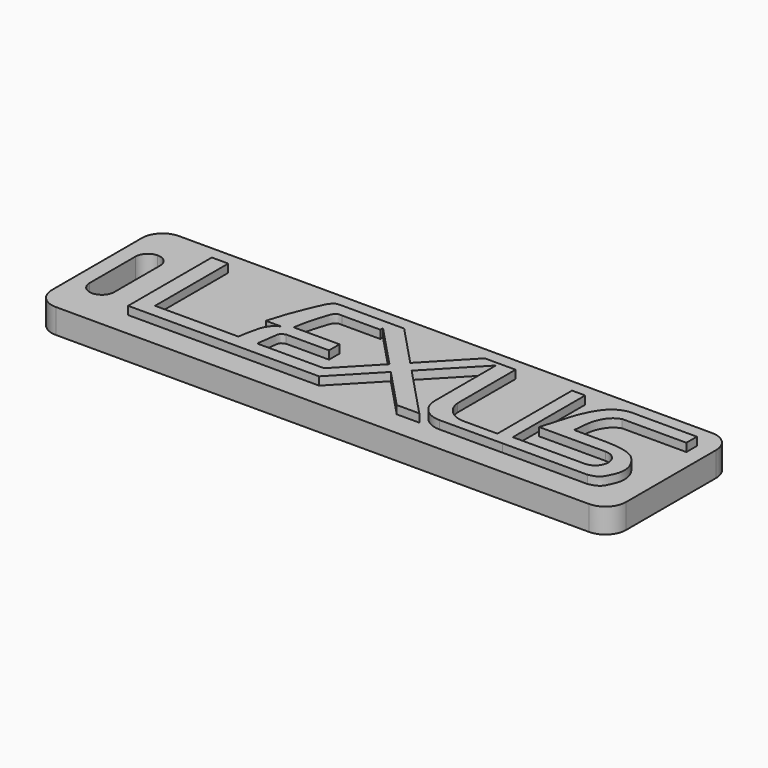
from build123d import *

# Parameters (mm, degrees)
F1_DEPTH = 3.81
F3_DEPTH = 1.27


with BuildPart() as f1:
    # F0 (on Top) → F1 (new body)
    with BuildSketch(Plane.XY):
        with BuildLine():
            Line((-41.275, -11.90625), (41.275, -11.90625))
            ThreePointArc((41.275, -11.90625), (43.5200640303, -10.9763140303), (44.45, -8.73125))
            Line((44.45, -8.73125), (44.45, 8.73125))
            ThreePointArc((44.45, 8.73125), (43.5200640303, 10.9763140303), (41.275, 11.90625))
            Line((41.275, 11.90625), (-41.275, 11.90625))
            ThreePointArc((-41.275, 11.90625), (-43.5200640303, 10.9763140303), (-44.45, 8.73125))
            Line((-44.45, 8.73125), (-44.45, -8.73125))
            ThreePointArc((-44.45, -8.73125), (-43.5200640303, -10.9763140303), (-41.275, -11.90625))
        make_face()
        with BuildLine():
            Line((-38.2169688356, 4.445), (-38.2169688356, -4.445))
            ThreePointArc((-38.2169688356, -4.445), (-38.7749304174, -5.7920384182), (-40.1219688356, -6.35))
            ThreePointArc((-40.1219688356, -6.35), (-41.4690072538, -5.7920384182), (-42.0269688356, -4.445))
            Line((-42.0269688356, -4.445), (-42.0269688356, 4.445))
            ThreePointArc((-42.0269688356, 4.445), (-41.4690072538, 5.7920384182), (-40.1219688356, 6.35))
            ThreePointArc((-40.1219688356, 6.35), (-38.7749304174, 5.7920384182), (-38.2169688356, 4.445))
        make_face(mode=Mode.SUBTRACT)
    extrude(amount=F1_DEPTH)

    # F2 (on face) → F3 (join)
    with BuildSketch(Plane.XY.offset(3.81)):
        with BuildLine():
            Line((-33.1369688356, 8.09625), (-33.1369688356, -8.09625))
            Line((-33.1369688356, -8.09625), (-14.9305017963, -8.09625))
            Line((-14.9305017963, -8.09625), (-4.4408244503, -8.09625))
            Line((-4.4408244503, -8.09625), (-4.4408244503, -6.06425))
            Line((-4.4408244503, -6.06425), (-14.7659257054, -6.06425))
            add(Edge.make_bspline(
                [(-13.513635844, -2.032), (-13.8611532829, -2.1980739704), (-14.3459285269, -2.2099492601), (-14.4823312004, -4.002820532), (-14.7172564306, -5.3877740164), (-14.7775029403, -5.761799907), (-14.7659257054, -6.06425)],
                knots=[0, 0, 0, 0, 0.2107594837, 0.5139383753, 0.8003027815, 1, 1, 1, 1], degree=3))
            Line((-13.513635844, -2.032), (-6.8832325343, -2.032))
            Line((-6.8832325343, -2.032), (-6.8832325343, 0))
            Line((-6.8832325343, 0), (-13.9832440764, 0))
            add(Edge.make_bspline(
                [(-11.374309659, 6.06425), (-11.7970469078, 6.0937481421), (-12.400656261, 6.0408242331), (-12.9628712261, 4.3407982551), (-13.3836406147, 2.9409234174), (-13.8567248974, 1.0073529425), (-13.9832440764, 0)],
                knots=[0, 0, 0, 0, 0.1854469036, 0.4247933811, 0.6668574102, 1, 1, 1, 1], degree=3))
            Line((-11.374309659, 6.06425), (-5.4148057359, 6.06425))
            Line((-5.4148057359, 6.06425), (-5.4148057359, 6.5723256238))
            Line((-5.4148057359, 6.5723256238), (-5.4148057359, 8.09625))
            Line((-5.4148057359, 8.09625), (-13.4092783555, 8.09625))
            add(Edge.make_bspline(
                [(-17.6879316568, -0.762), (-17.0853493776, 1.2922751779), (-16.7349072936, 2.3189827137), (-15.8911126674, 4.4121063422), (-15.0710282171, 6.5370694937), (-14.3847178975, 7.6672909404), (-13.9179741964, 8.0772032961), (-13.4092783555, 8.09625)],
                knots=[0, 0, 0, 0, 0.2707299894, 0.4717983457, 0.6911291675, 0.8524377102, 1, 1, 1, 1], degree=3))
            Line((-17.6879316568, -0.762), (-15.3005402535, -0.762))
            add(Edge.make_bspline(
                [(-17.6879316568, -6.06425), (-17.5631227568, -5.0804670724), (-17.5265823635, -5.0281161064), (-17.1728408985, -3.2023736826), (-16.8475061728, -2.1905918672), (-16.1243397189, -1.1537855527), (-15.7725399015, -0.9954859224), (-15.3005402535, -0.762)],
                knots=[0, 0, 0, 0, 0.2097857454, 0.4327627354, 0.6303900109, 0.8195013475, 1, 1, 1, 1], degree=3))
            Line((-17.6879316568, -6.06425), (-30.5969688356, -6.06425))
            Line((-30.5969688356, -6.06425), (-30.5969688356, 8.09625))
            Line((-30.5969688356, 8.09625), (-33.1369688356, 8.09625))
        make_face()
        Polygon((-4.4408244503, -6.06425), (-4.4408244503, -8.09625), (-3.57352963, -8.09625), (2.4774279686, -1.7803364764), (1.0801424445, -0.3015341148), align=None)
        Polygon((2.8394880429, 1.5348487183), (1.0801424445, -0.3015341148), (2.4774279686, -1.7803364764), (4.2367735671, 0.0560463568), align=None)
        Polygon((-5.4148057359, 6.5723256238), (1.0801424445, -0.3015341148), (2.8394880429, 1.5348487183), (-3.3602255002, 8.09625), (-5.4148057359, 8.09625), align=None)
        Polygon((4.2367735671, 0.0560463568), (2.4774279686, -1.7803364764), (8.4451859107, -8.09625), (11.9396863995, -8.09625), align=None)
        Polygon((9.1256350578, 8.09625), (2.8394880429, 1.5348487183), (4.2367735671, 0.0560463568), (11.3477446789, 7.4783886686), (11.9396863995, 8.09625), align=None)
        with BuildLine():
            Line((11.9396863995, 8.09625), (11.3477446789, 7.4783886686))
            Line((11.3477446789, 7.4783886686), (11.3477446789, -4.3666326941))
            ThreePointArc((11.3477446789, -4.3666326941), (12.4013025669, -6.9070776733), (14.9435433322, -7.9562949086))
            Line((14.9435433322, -7.9562949086), (24.6688841279, -7.9396838649))
            Line((24.6688841279, -7.9396838649), (24.6688841279, -5.9076838649))
            Line((24.6688841279, -5.9076838649), (24.6688841279, 8.09625))
            Line((24.6688841279, 8.09625), (22.6368841279, 8.09625))
            Line((22.6368841279, 8.09625), (22.6368841279, -6.3459635714))
            Line((22.6368841279, -6.3459635714), (17.4303608148, -6.3459635714))
            ThreePointArc((17.4303608148, -6.3459635714), (15.0273352941, -5.4111473397), (13.8877446789, -3.0981954877))
            Line((13.8877446789, -3.0981954877), (13.8877446789, 8.09625))
            Line((13.8877446789, 8.09625), (11.9396863995, 8.09625))
        make_face()
        with BuildLine():
            Line((24.6688841279, -5.9076838649), (24.6688841279, -7.9396838649))
            Line((24.6688841279, -7.9396838649), (37.8373786807, -7.9396838649))
            add(Edge.make_bspline(
                [(37.8373786807, -7.9396838649), (38.4882097852, -7.8114506673), (39.5178452641, -7.496112843), (40.126883642, -6.0991216047), (40.7050802618, -4.8496198201), (40.5764483682, -3.0792560488), (39.7269584552, -1.6891831447), (38.8078867235, -0.737734011), (37.8093798081, -0.2945075978), (36.4599787891, 0.0450284712), (34.7408936011, 0.1986066109), (34.1846869754, 0.1883161351)],
                knots=[0, 0, 0, 0, 0.1171066483, 0.2235125119, 0.3294259119, 0.4469201861, 0.5621007917, 0.6644797625, 0.7558675462, 0.8648976622, 1, 1, 1, 1], degree=3))
            Line((34.1846869754, 0.1883161351), (29.2448235171, 0.1883161351))
            add(Edge.make_bspline(
                [(29.2448235171, 0.1883161351), (29.4537920477, 0.9562330478), (29.3473473778, 2.6260589886), (30.233558549, 4.9044254628), (31.1930093172, 5.7724721465), (32.0247337222, 6.06425)],
                knots=[0, 0, 0, 0, 0.3448282666, 0.6791586925, 1, 1, 1, 1], degree=3))
            Line((32.0247337222, 6.06425), (41.9643558562, 6.06425))
            Line((41.9643558562, 6.06425), (41.9643558562, 8.09625))
            Line((41.9643558562, 8.09625), (33.1864038537, 8.09625))
            add(Edge.make_bspline(
                [(25.4828148948, -1.8436838649), (25.680435092, -1.0761085159), (26.0689778517, -0.0750567317), (26.6999114572, 2.5205566329), (27.6657264028, 4.9797411998), (29.0563776932, 7.0524197018), (30.311457036, 7.7653827779), (31.6423733416, 8.1991717396), (32.7591321523, 8.0866993991), (33.1864038537, 8.09625)],
                knots=[0, 0, 0, 0, 0.1419463815, 0.3049859755, 0.4748327911, 0.63374866, 0.7540605138, 0.8743708506, 1, 1, 1, 1], degree=3))
            Line((25.4828148948, -1.8436838649), (35.8053786807, -1.8436838649))
            ThreePointArc((35.8053786807, -1.8436838649), (37.2422196601, -2.4388428856), (37.8373786807, -3.8756838649))
            ThreePointArc((37.8373786807, -3.8756838649), (37.2422196601, -5.3125248443), (35.8053786807, -5.9076838649))
            Line((35.8053786807, -5.9076838649), (24.6688841279, -5.9076838649))
        make_face()
    extrude(amount=F3_DEPTH)


solid = f1.part
